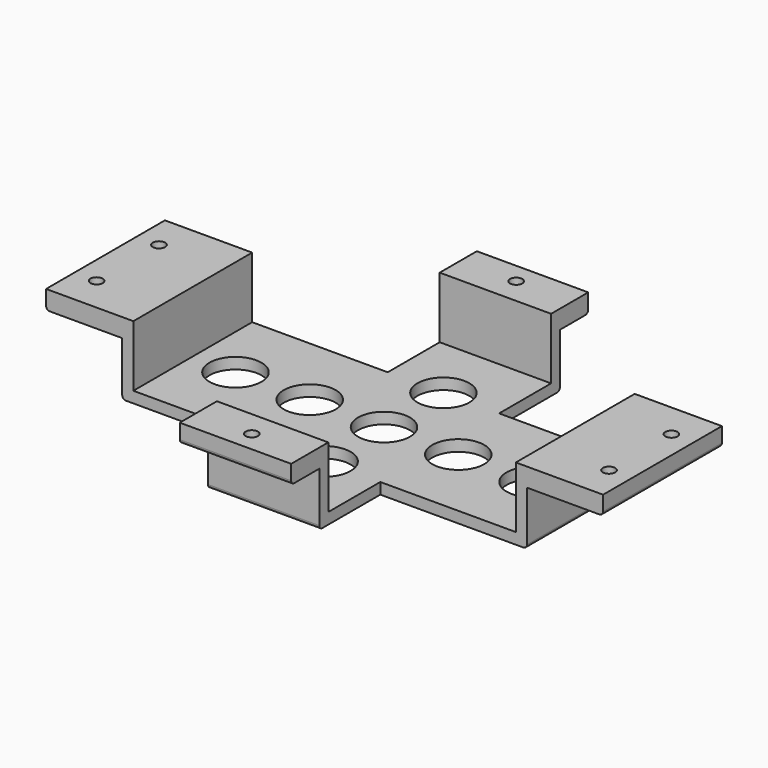
from build123d import *

# Parameters (mm, degrees)
PAD_DEPTH       = 3
SKETCH001_R     = 7
POCKET_DEPTH    = 3.001
SKETCH002_W     = 30
SKETCH002_H     = 19.5
PAD001_DEPTH    = 3
SKETCH003_W     = 30
SKETCH003_H     = 19.5
PAD002_DEPTH    = 3
SKETCH004_W     = 40
SKETCH004_H     = 19.5
PAD003_DEPTH    = 3
SKETCH005_W     = 40
SKETCH005_H     = 19.5
PAD004_DEPTH    = 3
SKETCH006_W     = 23.5
SKETCH006_H     = 40
SKETCH006_W_2   = 30
SKETCH006_H_2   = 12.5
PAD005_DEPTH    = 5
SKETCH007_R     = 1.65
POCKET001_DEPTH = 5.001
POCKET002_DEPTH = 2
FILLET_R        = 1
FILLET001_R     = 1
FILLET002_R     = 1
FILLET003_R     = 1
FILLET004_R     = 1
FILLET005_R     = 1
FILLET006_R     = 1
FILLET007_R     = 1


with BuildPart() as part:
    # Sketch → Pad (new body)
    with BuildSketch(Plane.XY):
        Polygon((-51.5, -20), (-51.5, 20), (-15, 20), (-15, 37.5), (15, 37.5), (15, 20), (51.5, 20), (51.5, -20), (15, -20), (15, -37.5), (-15, -37.5), (-15, -20), align=None)
    extrude(amount=PAD_DEPTH)

    # Sketch001 (on Face14 of Pad) → Pocket (cut, through all)
    with BuildSketch(Plane.XY.offset(3)):
        with Locations((-40, 0)):
            Circle(SKETCH001_R)
        with Locations((-20, 0)):
            Circle(SKETCH001_R)
        Circle(SKETCH001_R)
        with Locations((20, 0)):
            Circle(SKETCH001_R)
        with Locations((40, 0)):
            Circle(SKETCH001_R)
        with Locations((0, -20)):
            Circle(SKETCH001_R)
        with Locations((0, 20)):
            Circle(SKETCH001_R)
    extrude(amount=-POCKET_DEPTH, mode=Mode.SUBTRACT)

    # Sketch002 (on Face8 of Pocket) → Pad001 (join)
    with BuildSketch(Plane.XZ.offset(37.5)):
        with Locations((0, 9.75)):
            Rectangle(SKETCH002_W, SKETCH002_H)
    extrude(amount=PAD001_DEPTH)

    # Sketch003 (on Face9 of Pad001) → Pad002 (join)
    with BuildSketch(Plane(origin=(0, 37.5, 0), x_dir=(-1, 0, 0), z_dir=(0, 1, 0))):
        with Locations((0, 9.75)):
            Rectangle(SKETCH003_W, SKETCH003_H)
    extrude(amount=PAD002_DEPTH)

    # Sketch004 (on Face1 of Pad002) → Pad003 (join)
    with BuildSketch(Plane(origin=(-51.5, 0, 0), x_dir=(0, -1, 0), z_dir=(-1, 0, 0))):
        with Locations((0, 9.75)):
            Rectangle(SKETCH004_W, SKETCH004_H)
    extrude(amount=PAD003_DEPTH)

    # Sketch005 (on Face19 of Pad003) → Pad004 (join)
    with BuildSketch(Plane.YZ.offset(51.5)):
        with Locations((0, 9.75)):
            Rectangle(SKETCH005_W, SKETCH005_H)
    extrude(amount=PAD004_DEPTH)

    # Sketch006 (on Face8 of Pad004) → Pad005 (join)
    with BuildSketch(Plane.XY.offset(19.5)):
        with Locations((-63.25, 0)):
            Rectangle(SKETCH006_W, SKETCH006_H)
        with Locations((63.25, 0)):
            Rectangle(SKETCH006_W, SKETCH006_H)
        with Locations((0, 43.75)):
            Rectangle(SKETCH006_W_2, SKETCH006_H_2)
        with Locations((0, -43.75)):
            Rectangle(SKETCH006_W_2, SKETCH006_H_2)
    extrude(amount=-PAD005_DEPTH)

    # Sketch007 (on Face60 of Pad005) → Pocket001 (cut, through all)
    with BuildSketch(Plane(origin=(0, 0, 14.5), x_dir=(1, 0, 0), z_dir=(0, 0, -1))):
        with Locations((-69, 10.5)):
            Circle(SKETCH007_R)
        with Locations((69, 10.5)):
            Circle(SKETCH007_R)
        with Locations((0, 44.5)):
            Circle(SKETCH007_R)
        with Locations((0, -44.5)):
            Circle(SKETCH007_R)
        with Locations((-69, -10.5)):
            Circle(SKETCH007_R)
        with Locations((69, -10.5)):
            Circle(SKETCH007_R)
    extrude(amount=-POCKET001_DEPTH, mode=Mode.SUBTRACT)

    # Sketch008 (on Face36 of Pocket001) → Pocket002 (cut)
    with BuildSketch(Plane(origin=(0, 0, 14.5), x_dir=(1, 0, 0), z_dir=(0, 0, -1))):
        Polygon((-65.95, 8.739082), (-65.95, 12.260918), (-69, 14.021837), (-72.05, 12.260918), (-72.05, 8.739082), (-69, 6.978163), align=None)
        Polygon((-65.95, -12.260918), (-65.95, -8.739082), (-69, -6.978163), (-72.05, -8.739082), (-72.05, -12.260918), (-69, -14.021837), align=None)
        Polygon((72.05, 8.739082), (72.05, 12.260918), (69, 14.021837), (65.95, 12.260918), (65.95, 8.739082), (69, 6.978163), align=None)
        Polygon((72.05, -12.260918), (72.05, -8.739082), (69, -6.978163), (65.95, -8.739082), (65.95, -12.260918), (69, -14.021837), align=None)
        Polygon((1.760918, 41.45), (3.521837, 44.5), (1.760918, 47.55), (-1.760918, 47.55), (-3.521837, 44.5), (-1.760918, 41.45), align=None)
        Polygon((1.760918, -47.55), (3.521837, -44.5), (1.760918, -41.45), (-1.760918, -41.45), (-3.521837, -44.5), (-1.760918, -47.55), align=None)
    extrude(amount=-POCKET002_DEPTH, mode=Mode.SUBTRACT)

    # Fillet
    fillet_edges = [part.edges().sort_by_distance(p)[0] for p in [
        (-75, 0, 14.5),
    ]]
    fillet(fillet_edges, radius=FILLET_R)

    # Fillet001
    fillet001_edges = [part.edges().sort_by_distance(p)[0] for p in [
        (0, 50, 14.5),
    ]]
    fillet(fillet001_edges, radius=FILLET001_R)

    # Fillet002
    fillet002_edges = [part.edges().sort_by_distance(p)[0] for p in [
        (0, -50, 14.5),
    ]]
    fillet(fillet002_edges, radius=FILLET002_R)

    # Fillet003
    fillet003_edges = [part.edges().sort_by_distance(p)[0] for p in [
        (75, 0, 14.5),
    ]]
    fillet(fillet003_edges, radius=FILLET003_R)

    # Fillet004
    fillet004_edges = [part.edges().sort_by_distance(p)[0] for p in [
        (54.5, 0, 0),
    ]]
    fillet(fillet004_edges, radius=FILLET004_R)

    # Fillet005
    fillet005_edges = [part.edges().sort_by_distance(p)[0] for p in [
        (0, 40.5, 0),
    ]]
    fillet(fillet005_edges, radius=FILLET005_R)

    # Fillet006
    fillet006_edges = [part.edges().sort_by_distance(p)[0] for p in [
        (-54.5, 0, 0),
    ]]
    fillet(fillet006_edges, radius=FILLET006_R)

    # Fillet007
    fillet007_edges = [part.edges().sort_by_distance(p)[0] for p in [
        (0, -40.5, 0),
    ]]
    fillet(fillet007_edges, radius=FILLET007_R)


solid = part.part
